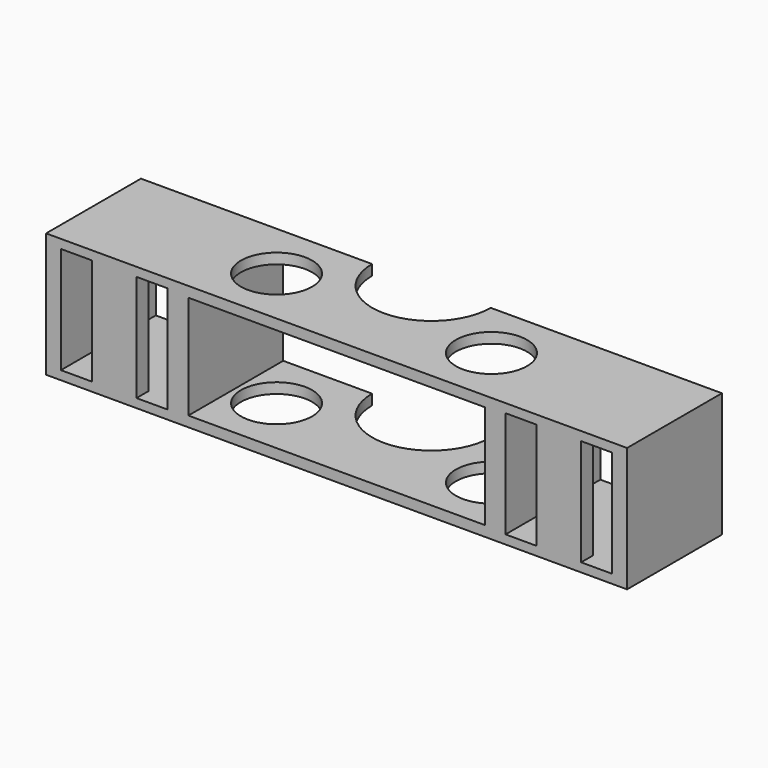
from build123d import *

# Parameters (mm, degrees)
SKETCH099_W             = 39.2
SKETCH099_H             = 8.4
SKETCH099_W_2           = 7.2
SKETCH099_H_2           = 7.2
SKETCH099_W_3           = 20
SKETCH099_H_3           = 7
PAD061_DEPTH            = 8
CYLINDER082_R           = 4
CYLINDER082_DEPTH       = 5
BOX007_W                = 3
BOX007_H                = 1
BOX007_DEPTH            = 8
CYLINDER083_R           = 2.4
CYLINDER083_DEPTH       = 10
BODY094_PLACEMENT_ANGLE = 90


with BuildPart() as part:
    # Sketch099 → Pad061 (new body)
    with BuildSketch(Plane.XY):
        Rectangle(SKETCH099_W, SKETCH099_H)
        with Locations((-15, 0)):
            Rectangle(SKETCH099_W_2, SKETCH099_H_2, mode=Mode.SUBTRACT)
        with Locations((15, 0)):
            Rectangle(SKETCH099_W_2, SKETCH099_H_2, mode=Mode.SUBTRACT)
        Rectangle(SKETCH099_W_3, SKETCH099_H_3, mode=Mode.SUBTRACT)
    extrude(amount=PAD061_DEPTH)

    # Cylinder082 → Cylinder082 (cut)
    with BuildSketch(Plane(origin=(0, 0, 8), x_dir=(1, 0, 0), z_dir=(0, -1, 0))):
        Circle(CYLINDER082_R)
    cylinder082 = extrude(amount=CYLINDER082_DEPTH, mode=Mode.SUBTRACT)

    # Mirrored017: Cylinder082 across XZ
    add(cylinder082.mirror(Plane.XZ), mode=Mode.SUBTRACT)

    # Box007 → Box007 (join)
    with BuildSketch(Plane(origin=(-16.5, 4, 0), x_dir=(1, 0, 0), z_dir=(0, -1, 0))):
        with Locations((1.5, 0.5)):
            Rectangle(BOX007_W, BOX007_H)
    box007 = extrude(amount=BOX007_DEPTH)

    # Mirrored018: Box007 across YZ
    add(box007.mirror(Plane.YZ))

    # Cylinder083 → Cylinder083 (cut)
    with BuildSketch(Plane(origin=(-7.25, 5, 4), x_dir=(1, 0, 0), z_dir=(0, -1, 0))):
        Circle(CYLINDER083_R)
    cylinder083 = extrude(amount=CYLINDER083_DEPTH, mode=Mode.SUBTRACT)

    # Mirrored019: Cylinder083 across YZ
    add(cylinder083.mirror(Plane.YZ), mode=Mode.SUBTRACT)


with BuildPart() as part_1:
    # Body088 placement: moved
    add(part.part.moved(Location((0, 0, -10.5))))


with BuildPart() as part_2:
    # Body094 placement: moved
    add(part_1.part.moved(Location((40, 17, 54))).rotate(Axis((40, 17, 54), (-1, 0, 0)), BODY094_PLACEMENT_ANGLE))


solid = part_2.part
